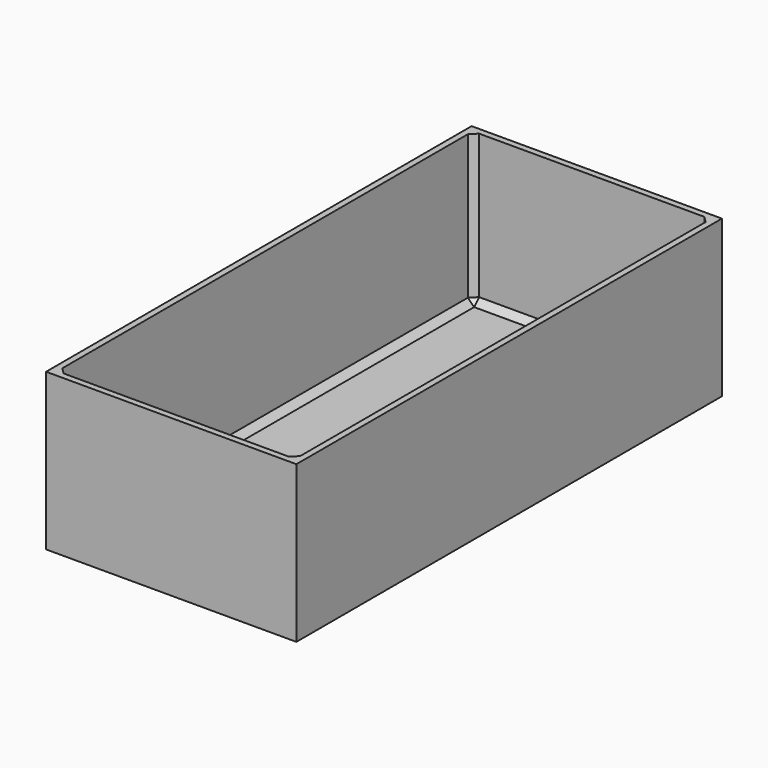
from build123d import *

# Parameters (mm, degrees)
F1_W     = 80
F1_H     = 170
F1_W_2   = 76
F1_H_2   = 166
F2_DEPTH = 50
F3_DEPTH = 2
F4_SIZE  = 2


with BuildPart() as f2:
    # F1 (on Top) → F2 (new body)
    with BuildSketch(Plane.XY):
        Rectangle(F1_W, F1_H)
        Rectangle(F1_W_2, F1_H_2, mode=Mode.SUBTRACT)
    extrude(amount=F2_DEPTH)

    # F1 (on Top) → F3 (join)
    with BuildSketch(Plane.XY):
        Rectangle(F1_W, F1_H)
        Rectangle(F1_W_2, F1_H_2, mode=Mode.SUBTRACT)
        Rectangle(F1_W_2, F1_H_2)
    extrude(amount=F3_DEPTH)

    # F4
    f4_edges = [f2.edges().sort_by_distance(p)[0] for p in [
        (0, 83, 2),
        (38, 0, 2),
        (-38, 0, 2),
        (0, -83, 2),
        (38, -83, 26),
        (38, 83, 26),
        (-38, 83, 26),
        (-38, -83, 26),
    ]]
    chamfer(f4_edges, length=F4_SIZE)


solid = f2.part
